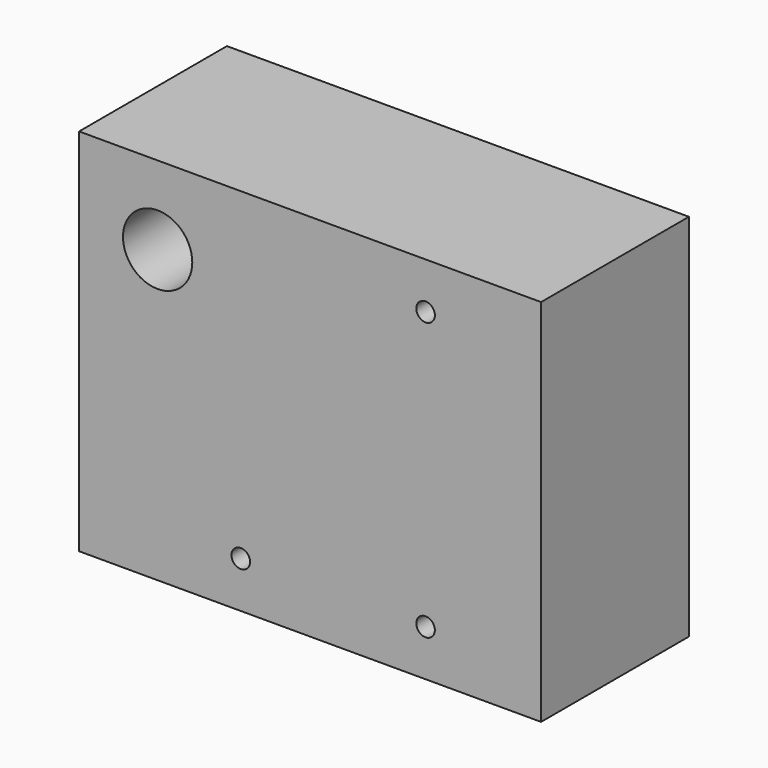
from build123d import *

# Parameters (mm, degrees)
F0_W     = 127
F0_H     = 101.6
F1_DEPTH = 12.7
F2_DEPTH = 25.4
F3_R     = 9.525
F4_DEPTH = 50.801
F6_D     = 5.1054


with BuildPart() as f1:
    # F0 (on Front) → F1 (new body, symmetric)
    with BuildSketch(Plane.XZ):
        Rectangle(F0_W, F0_H)
    extrude(amount=F1_DEPTH, both=True)

    # F2 (add): a face of the model
    f2_faces = [f1.faces().sort_by_distance(p)[0] for p in [
        (0, -12.7, 0),
    ]]
    extrude(f2_faces, amount=F2_DEPTH)

    # F3 (on face) → F4 (cut, through all)
    with BuildSketch(Plane.XZ.offset(38.1)):
        with Locations((-41.91, 29.21)):
            Circle(F3_R)
    extrude(amount=-F4_DEPTH, mode=Mode.SUBTRACT)

    # F6 (through all)
    with Locations(Plane.XZ.offset(38.1)):
        with Locations((31.75, 38.1), (31.75, -38.1), (-19.05, -38.1)):
            Hole(F6_D / 2)


solid = f1.part
